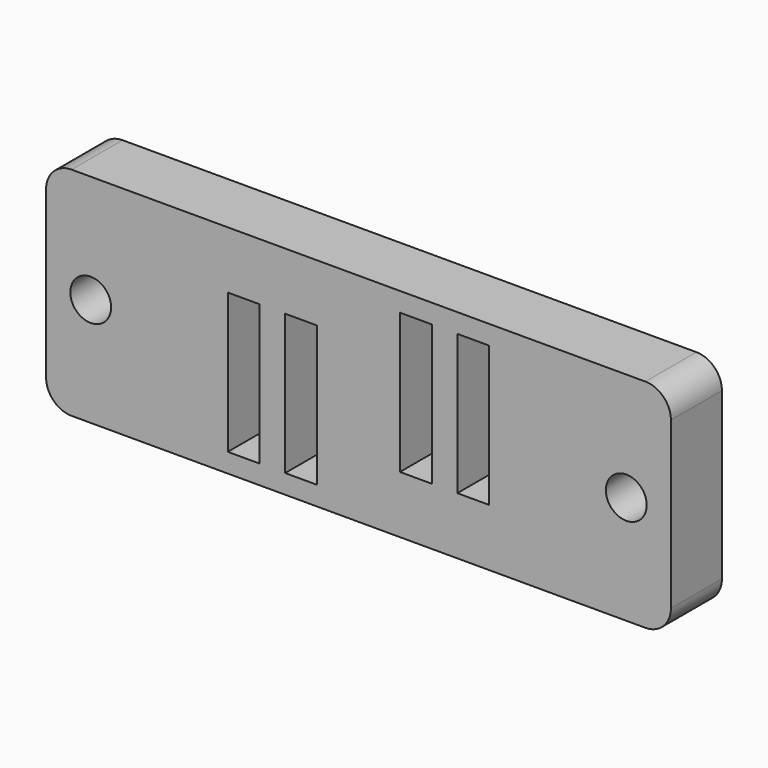
from build123d import *

# Parameters (mm, degrees)
F0_W     = 49
F0_H     = 17
F0_W_2   = 2.5
F0_H_2   = 11
F1_DEPTH = 5
F3_D     = 3.2
F4_R     = 2


with BuildPart() as f1:
    # F0 (on Front) → F1 (new body)
    with BuildSketch(Plane.XZ):
        Rectangle(F0_W, F0_H)
        with Locations((-9, -1.5)):
            Rectangle(F0_W_2, F0_H_2, mode=Mode.SUBTRACT)
        with Locations((-4.5, -1.5)):
            Rectangle(F0_W_2, F0_H_2, mode=Mode.SUBTRACT)
        with Locations((4.5, 1.5)):
            Rectangle(F0_W_2, F0_H_2, mode=Mode.SUBTRACT)
        with Locations((9, 1.5)):
            Rectangle(F0_W_2, F0_H_2, mode=Mode.SUBTRACT)
    extrude(amount=F1_DEPTH)

    # F3 (through all)
    with Locations(Plane(origin=(0, 0, 0), x_dir=(1, 0, 0), z_dir=(0, 1, 0))):
        with Locations((-21, 0), (21, 0)):
            Hole(F3_D / 2)

    # F4
    f4_edges = [f1.edges().sort_by_distance(p)[0] for p in [
        (-24.5, -2.5, 8.5),
        (-24.5, -2.5, -8.5),
        (24.5, -2.5, 8.5),
        (24.5, -2.5, -8.5),
    ]]
    fillet(f4_edges, radius=F4_R)


solid = f1.part
